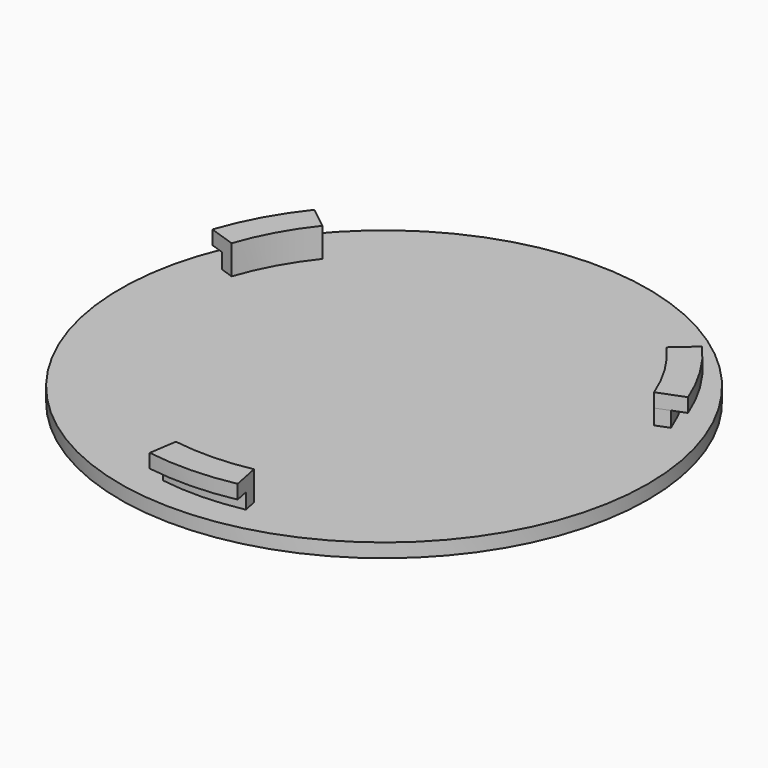
from build123d import *

# Parameters (mm, degrees)
F0_R     = 19
F1_DEPTH = 1
F3_DEPTH = 1.1
F5_DEPTH = 1


with BuildPart() as f1:
    # F0 (on Top) → F1 (new body)
    with BuildSketch(Plane.XY):
        Circle(F0_R)
    extrude(amount=F1_DEPTH)

    # F2 (on face) → F3 (join)
    with BuildSketch(Plane.XY.offset(1)):
        with BuildLine():
            Line((14.815816, 5.770752), (15.747629, 6.133693))
            ThreePointArc((15.747629, 6.133693), (14.443282, 8.775055), (12.700084, 11.149792))
            Line((12.700084, 11.149792), (11.9486, 10.490041))
            ThreePointArc((11.9486, 10.490041), (13.58865, 8.255821), (14.815816, 5.770752))
        make_face()
        with BuildLine():
            ThreePointArc((-15.058942, 5.102771), (-13.944076, 7.640206), (-12.405526, 9.945497))
            Line((-12.405526, 9.945497), (-13.185748, 10.571))
            ThreePointArc((-13.185748, 10.571), (-14.821062, 8.120722), (-16.006045, 5.4237))
            Line((-16.006045, 5.4237), (-15.058942, 5.102771))
        make_face()
        with BuildLine():
            ThreePointArc((3.110342, -15.592812), (0.355426, -15.896027), (-2.41029, -15.71625))
            Line((-2.41029, -15.71625), (-2.561881, -16.704693))
            ThreePointArc((-2.561881, -16.704693), (0.377779, -16.895777), (3.305961, -16.573492))
            Line((3.305961, -16.573492), (3.110342, -15.592812))
        make_face()
    extrude(amount=F3_DEPTH)

    # F4 (on face) → F5 (join)
    with BuildSketch(Plane.XY.offset(2.1)):
        with BuildLine():
            ThreePointArc((-15.058942, 5.102771), (-13.944076, 7.640206), (-12.405526, 9.945497))
            Line((-12.405526, 9.945497), (-13.96597, 11.196503))
            ThreePointArc((-13.96597, 11.196503), (-15.698048, 8.601238), (-16.953148, 5.744629))
            Line((-16.953148, 5.744629), (-15.058942, 5.102771))
        make_face()
        with BuildLine():
            Line((-2.41029, -15.71625), (-2.713471, -17.693136))
            ThreePointArc((-2.713471, -17.693136), (0.400133, -17.895527), (3.50158, -17.554172))
            Line((3.50158, -17.554172), (3.110342, -15.592812))
            ThreePointArc((3.110342, -15.592812), (0.355426, -15.896027), (-2.41029, -15.71625))
        make_face()
        with BuildLine():
            Line((14.815816, 5.770752), (16.679441, 6.496633))
            ThreePointArc((16.679441, 6.496633), (15.297915, 9.294289), (13.451568, 11.809543))
            Line((13.451568, 11.809543), (11.9486, 10.490041))
            ThreePointArc((11.9486, 10.490041), (13.58865, 8.255821), (14.815816, 5.770752))
        make_face()
    extrude(amount=F5_DEPTH)


solid = f1.part
